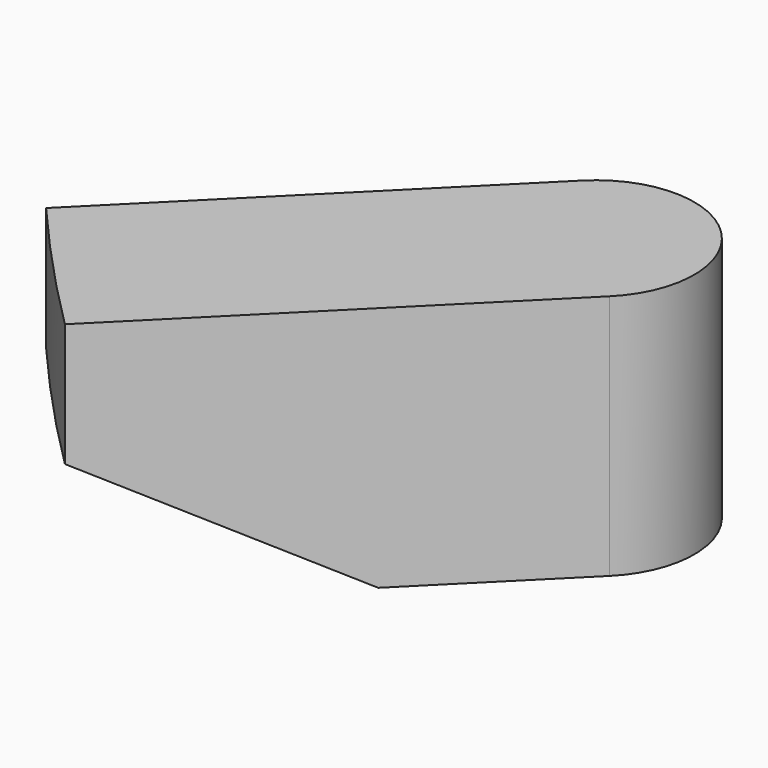
from build123d import *

# Parameters (mm, degrees)
F1_DEPTH = 5
F2_DEPTH = 5
F3_SIZE2 = 10
F3_SIZE  = 5
F4_D     = 2.5908
F4_DEPTH = 5.001


with BuildPart() as f1:
    # F0 (on Top) → F1 (new body)
    with BuildSketch(Plane.XY):
        with BuildLine():
            ThreePointArc((-74.419728056, -63.7628738065), (-71.7533661722, -66.7491905791), (-68.9672591452, -69.6241133947))
            Line((-68.9672591452, -69.6241133947), (-56.6715728753, -57.3284271247))
            ThreePointArc((-56.6715728753, -57.3284271247), (-56.6715728753, -51.6715728753), (-62.3284271247, -51.6715728753))
            Line((-62.3284271247, -51.6715728753), (-74.419728056, -63.7628738065))
        make_face()
    extrude(amount=F1_DEPTH)

    # F0 (on Top) → F2 (join)
    with BuildSketch(Plane.XY):
        with BuildLine():
            ThreePointArc((-74.419728056, -63.7628738065), (-71.7533661722, -66.7491905791), (-68.9672591452, -69.6241133947))
            Line((-68.9672591452, -69.6241133947), (-56.6715728753, -57.3284271247))
            ThreePointArc((-56.6715728753, -57.3284271247), (-56.6715728753, -51.6715728753), (-62.3284271247, -51.6715728753))
            Line((-62.3284271247, -51.6715728753), (-74.419728056, -63.7628738065))
        make_face()
    extrude(amount=-F2_DEPTH)

    # F3
    f3_edges = [f1.edges().sort_by_distance(p)[0] for p in [
        (-71.753366, -66.749191, -5),
    ]]
    f3_side = f1.faces().sort_by_distance((-71.753366, -66.749191, 0))[0]
    chamfer(f3_edges, length=F3_SIZE, length2=F3_SIZE2, reference=f3_side)

    # F4 (through all, one way)
    with BuildSketch(Plane.XY):
        with Locations((-59.5, -54.5)):
            Circle(F4_D / 2)
    extrude(amount=-F4_DEPTH, mode=Mode.SUBTRACT)


solid = f1.part
